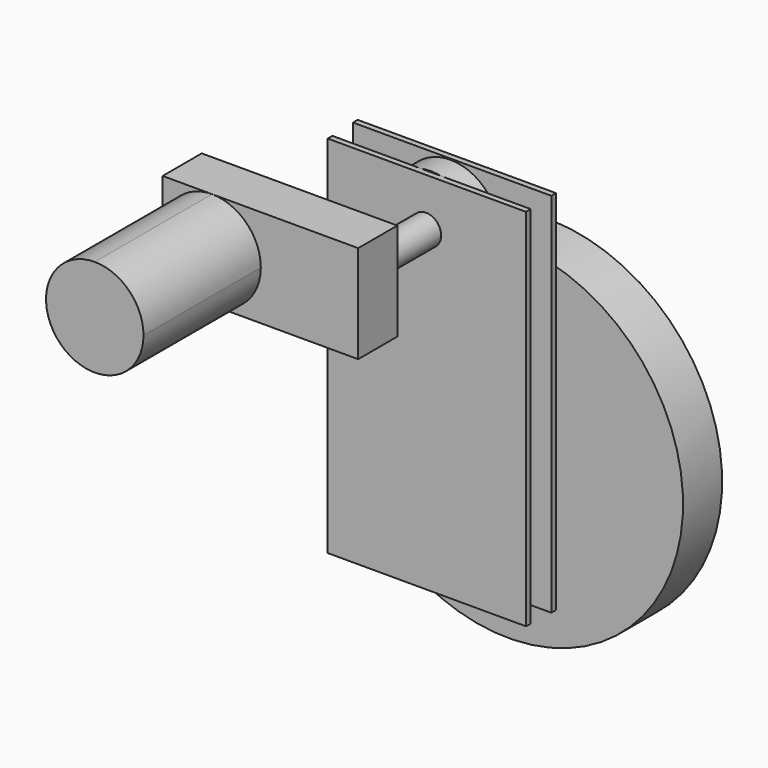
from build123d import *

# Parameters (mm, degrees)
F0_W      = 101.6
F0_H      = 50.8
F1_DEPTH  = 25.4
F3_DEPTH  = 76.2
F4_R      = 7.8170204451
F5_DEPTH  = 50.8
F6_R      = 25.644207128
F6_R_2    = 7.8170204451
F7_DEPTH  = 6.35
F9_DEPTH  = 12.7
F10_R     = 9.8375849935
F11_DEPTH = 50.8
F12_R     = 90.7447229993
F12_R_2   = 9.8375849935
F13_DEPTH = 12.7
F14_W     = 103.0746027827
F14_H     = 190.7155923545
F14_R     = 7.8170204451
F15_DEPTH = 3.048
F16_W     = 103.0746139586
F16_H     = 189.613185823
F17_DEPTH = 3.048


with BuildPart() as f1:
    # F0 (on Front) → F1 (new body)
    with BuildSketch(Plane.XZ):
        with Locations((50.8, 25.4)):
            Rectangle(F0_W, F0_H)
    extrude(amount=F1_DEPTH)

    # F2 (on face) → F3 (join)
    with BuildSketch(Plane.XZ.offset(25.4)):
        with BuildLine():
            ThreePointArc((25.6833657622, 50.8), (7.7793208604, 7.5758119767), (51.0035088837, 25.4798568785))
            ThreePointArc((51.0035088837, 25.4798568785), (43.587410664, 43.3839017803), (25.6833657622, 50.8))
        make_face()
    extrude(amount=F3_DEPTH)

    # F4 (on face) → F5 (join)
    with BuildSketch(Plane(origin=(0, 0, 0), x_dir=(-1, 0, 0), z_dir=(0, 1, 0))):
        with Locations((-83.4593474865, 26.1290259659)):
            Circle(F4_R)
    extrude(amount=F5_DEPTH)

    # F6 (on face) → F7 (join, symmetric)
    with BuildSketch(Plane(origin=(0, 50.8, 0), x_dir=(-1, 0, 0), z_dir=(0, 1, 0))):
        with Locations((-83.4593474865, 26.1290259659)):
            Circle(F6_R)
        with Locations((-83.4593474865, 26.1290259659)):
            Circle(F6_R_2, mode=Mode.SUBTRACT)
    extrude(amount=F7_DEPTH, both=True)

    # F8 (on face) → F9 (join)
    with BuildSketch(Plane(origin=(0, 57.15, 0), x_dir=(-1, 0, 0), z_dir=(0, 1, 0))):
        with BuildLine():
            ThreePointArc((-82.8231419789, -53.6424991385), (-65.0168964585, -45.0063215529), (-57.8038766465, -26.5775861645))
            ThreePointArc((-57.8038766465, -26.5775861645), (-65.0349730844, -8.1293153727), (-82.8762134984, 0.4914497549))
            ThreePointArc((-82.8762134984, 0.4914497549), (-84.1855044396, 0.4951020505), (-85.4929024808, 0.5655752343))
            ThreePointArc((-85.4929024808, 0.5655752343), (-112.1009188319, -26.5299215531), (-85.588209331, -53.7186823785))
            ThreePointArc((-85.588209331, -53.7186823785), (-84.2063651548, -53.6555653942), (-82.8231419789, -53.6424991385))
        make_face()
    extrude(amount=-F9_DEPTH)

    # F8 (on face) → F9, piece 2 (join)
    with BuildSketch(Plane(origin=(0, 57.15, 0), x_dir=(-1, 0, 0), z_dir=(0, 1, 0))):
        with BuildLine():
            ThreePointArc((-44.9375776675, -91.8573196977), (-56.0141948455, -64.9515187732), (-82.8231419789, -53.6424991385))
            ThreePointArc((-82.8231419789, -53.6424991385), (-84.2047047528, -53.7158296115), (-85.588209331, -53.7186823785))
            ThreePointArc((-85.588209331, -53.7186823785), (-109.3019548476, -119.7276870761), (-44.9375776675, -91.8573196977))
        make_face()
    extrude(amount=-F9_DEPTH)

    # F10 (on face) → F11 (join)
    with BuildSketch(Plane(origin=(0, 57.15, 0), x_dir=(-1, 0, 0), z_dir=(0, 1, 0))):
        with Locations((-83.1538289785, -91.8573196977)):
            Circle(F10_R)
    extrude(amount=F11_DEPTH)

    # F12 (on face) → F13 (join, symmetric)
    with BuildSketch(Plane(origin=(0, 107.95, 0), x_dir=(-1, 0, 0), z_dir=(0, 1, 0))):
        with Locations((-83.1538289785, -91.8573196977)):
            Circle(F12_R)
        with Locations((-83.1538289785, -91.8573196977)):
            Circle(F12_R_2, mode=Mode.SUBTRACT)
    extrude(amount=F13_DEPTH, both=True)


with BuildPart() as f15:
    # F14 (on face) → F15 (new body)
    with BuildSketch(Plane(origin=(0, 57.15, 0), x_dir=(-1, 0, 0), z_dir=(0, 1, 0))):
        with Locations((-84.4017453492, -43.0038068444)):
            Rectangle(F14_W, F14_H)
        with BuildLine():
            ThreePointArc((-85.4929024808, 0.5655752343), (-100.8587218107, 44.9674742129), (-57.8151403585, 26.1290259659))
            ThreePointArc((-57.8151403585, 26.1290259659), (-65.1211446302, 8.2031877645), (-82.8762134984, 0.4914497549))
            ThreePointArc((-82.8762134984, 0.4914497549), (-57.8038896932, -26.5509704508), (-82.8231419789, -53.6424991385))
            ThreePointArc((-82.8231419789, -53.6424991385), (-84.2063651548, -53.6555653942), (-85.588209331, -53.7186823785))
            ThreePointArc((-85.588209331, -53.7186823785), (-112.1009188319, -26.5299215531), (-85.4929024808, 0.5655752343))
        make_face(mode=Mode.SUBTRACT)
        with BuildLine():
            ThreePointArc((-82.8762134984, 0.4914497549), (-65.1211446302, 8.2031877645), (-57.8151403585, 26.1290259659))
            ThreePointArc((-57.8151403585, 26.1290259659), (-100.8587218107, 44.9674742129), (-85.4929024808, 0.5655752343))
            ThreePointArc((-85.4929024808, 0.5655752343), (-112.1009188319, -26.5299215531), (-85.588209331, -53.7186823785))
            ThreePointArc((-85.588209331, -53.7186823785), (-84.2063651548, -53.6555653942), (-82.8231419789, -53.6424991385))
            ThreePointArc((-82.8231419789, -53.6424991385), (-57.8038896932, -26.5509704508), (-82.8762134984, 0.4914497549))
        make_face()
        with Locations((-83.4593474865, 26.1290259659)):
            Circle(F14_R, mode=Mode.SUBTRACT)
        with Locations((-83.4593474865, 26.1290259659)):
            Circle(F14_R)
    extrude(amount=F15_DEPTH)


with BuildPart() as f17:
    # F16 (on face) → F17 (new body)
    with BuildSketch(Plane.XZ.offset(-44.45)):
        with Locations((83.8505458087, -43.5550101101)):
            Rectangle(F16_W, F16_H)
        with BuildLine():
            ThreePointArc((44.9375776675, -91.8573196977), (56.0141948455, -64.9515187732), (82.8231419789, -53.6424991385))
            ThreePointArc((82.8231419789, -53.6424991385), (84.2047047528, -53.7158296115), (85.588209331, -53.7186823785))
            ThreePointArc((85.588209331, -53.7186823785), (109.3019548476, -119.7276870761), (44.9375776675, -91.8573196977))
        make_face(mode=Mode.SUBTRACT)
        with BuildLine():
            ThreePointArc((85.588209331, -53.7186823785), (84.2047047528, -53.7158296115), (82.8231419789, -53.6424991385))
            ThreePointArc((82.8231419789, -53.6424991385), (56.0141948455, -64.9515187732), (44.9375776675, -91.8573196977))
            ThreePointArc((44.9375776675, -91.8573196977), (109.3019548476, -119.7276870761), (85.588209331, -53.7186823785))
        make_face()
    extrude(amount=F17_DEPTH)


solid = Compound([f1.part, f15.part, f17.part])
